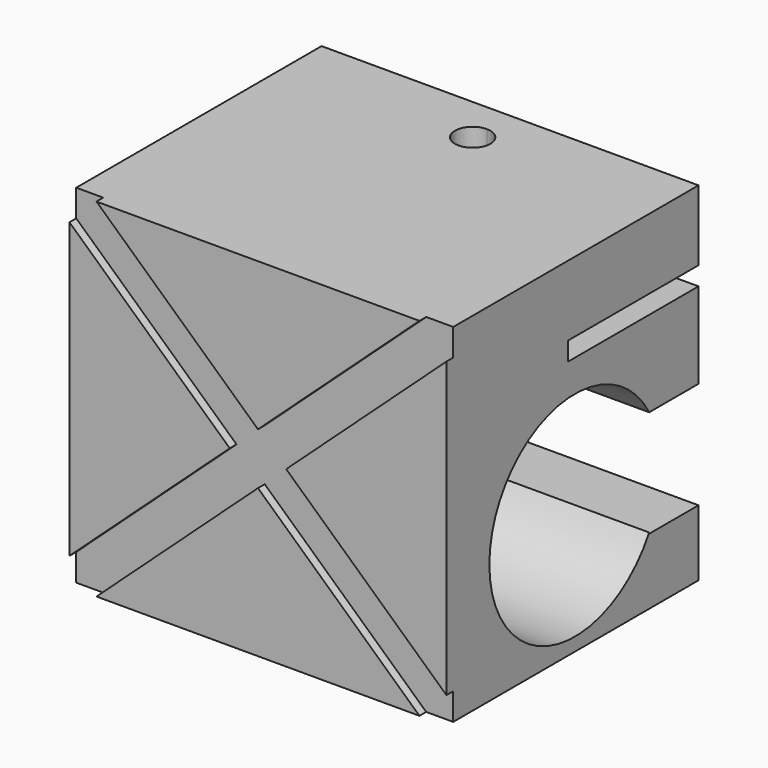
from build123d import *

# Parameters (mm, degrees)
F0_W     = 1701.8
F0_H     = 1569.72
F1_DEPTH = 1422.4
F3_DEPTH = 38.1
F5_DEPTH = 317.5
F7_DEPTH = 2110.74
F6_W     = 736.6
F6_H     = 83.82
F8_DEPTH = 3215.64


with BuildPart() as f1:
    # F0 (on Front) → F1 (new body)
    with BuildSketch(Plane.XZ):
        Rectangle(F0_W, F0_H)
    extrude(amount=-F1_DEPTH)

    # F2 (on face) → F3 (cut)
    with BuildSketch(Plane.XZ):
        Polygon((728.98, -784.86), (850.9, -784.86), (850.9, -662.94), (127.4812631579, 0), (0, -116.8236655949), align=None)
        Polygon((-728.98, -784.86), (0, -116.8236655949), (-127.4812631579, 0), (-850.9, -662.94), (-850.9, -784.86), align=None)
        Polygon((0, -116.8236655949), (127.4812631579, 0), (0, 116.8236655949), (-127.4812631579, 0), align=None)
        Polygon((-127.4812631579, 0), (0, 116.8236655949), (-728.98, 784.86), (-850.9, 784.86), (-850.9, 662.94), align=None)
        Polygon((0, 116.8236655949), (127.4812631579, 0), (850.9, 662.94), (850.9, 784.86), (728.98, 784.86), align=None)
    extrude(amount=-F3_DEPTH, mode=Mode.SUBTRACT)

    # F4 (on face) → F5 (cut)
    with BuildSketch(Plane.XY.offset(784.86)):
        with BuildLine():
            ThreePointArc((0, 1291.59), (-56.5756135627, 1155.0043864373), (80.01, 1211.58))
            ThreePointArc((80.01, 1211.58), (56.5756135627, 1268.1556135627), (0, 1291.59))
        make_face()
    extrude(amount=-F5_DEPTH, mode=Mode.SUBTRACT)

    # F6 (on face) → F7 (cut)
    with BuildSketch(Plane.YZ.offset(850.9)):
        with BuildLine():
            ThreePointArc((1207.3232198715, -242.7988052368), (1191.2452582352, -119.2676443058), (1144.0826574141, -3.9674376488))
            Line((1144.0826574141, -3.9674376488), (1144.0826574141, -481.6301728248))
            ThreePointArc((1144.0826574141, -481.6301728248), (1191.2452582352, -366.3299661679), (1207.3232198715, -242.7988052368))
        make_face()
        with BuildLine():
            Line((1144.0826574141, -481.6301728248), (1144.0826574141, -3.9674376488))
            ThreePointArc((1144.0826574141, -3.9674376488), (242.1232198715, -242.7988052368), (1144.0826574141, -481.6301728248))
        make_face()
        with BuildLine():
            Line((1422.4, -486.5674376488), (1422.4, -3.9674376488))
            Line((1422.4, -3.9674376488), (1144.0826574141, -3.9674376488))
            ThreePointArc((1144.0826574141, -3.9674376488), (1191.2452582352, -119.2676443058), (1207.3232198715, -242.7988052368))
            ThreePointArc((1207.3232198715, -242.7988052368), (1191.2452582352, -366.3299661679), (1144.0826574141, -481.6301728248))
            Line((1144.0826574141, -481.6301728248), (1144.0826574141, -486.5674376488))
            Line((1144.0826574141, -486.5674376488), (1422.4, -486.5674376488))
        make_face()
    extrude(amount=-F7_DEPTH, mode=Mode.SUBTRACT)

    # F6 (on face) → F8 (cut)
    with BuildSketch(Plane.YZ.offset(850.9)):
        with Locations((1054.1, 425.45)):
            Rectangle(F6_W, F6_H)
    extrude(amount=-F8_DEPTH, mode=Mode.SUBTRACT)


solid = f1.part
